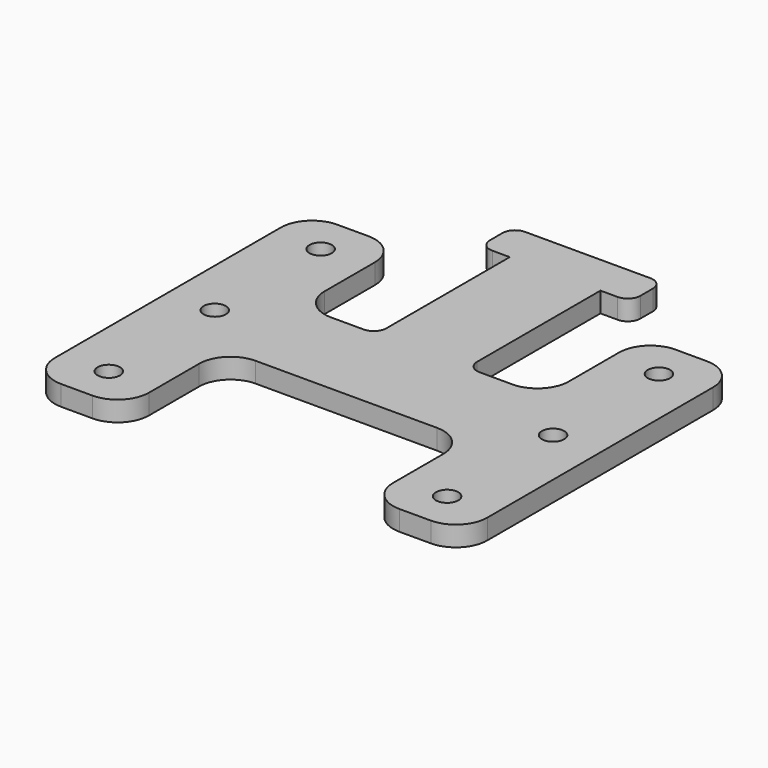
from build123d import *

# Parameters (mm, degrees)
F0_R     = 1.778
F1_DEPTH = 3.2


with BuildPart() as f1:
    # F0 (on Top) → F1 (new body)
    with BuildSketch(Plane.XY):
        with BuildLine():
            ThreePointArc((0, 5), (1.464466, 1.464466), (5, 0))
            Line((5, 0), (10, 0))
            ThreePointArc((10, 0), (13.535534, 1.464466), (15, 5))
            Line((15, 5), (15, 15))
            ThreePointArc((15, 15), (16.464466, 18.535534), (20, 20))
            Line((20, 20), (34.455914, 20))
            Line((34.455914, 20), (48.911828, 20))
            ThreePointArc((48.911828, 20), (52.447362, 18.535534), (53.911828, 15))
            Line((53.911828, 15), (53.911828, 5))
            ThreePointArc((53.911828, 5), (55.376294, 1.464466), (58.911828, 0))
            Line((58.911828, 0), (63.911828, 0))
            ThreePointArc((63.911828, 0), (67.447362, 1.464466), (68.911828, 5))
            Line((68.911828, 5), (68.911828, 50))
            ThreePointArc((68.911828, 50), (67.447362, 53.535534), (63.911828, 55))
            Line((63.911828, 55), (58.911828, 55))
            ThreePointArc((58.911828, 55), (55.376294, 53.535534), (53.911828, 50))
            Line((53.911828, 50), (53.911828, 40))
            ThreePointArc((53.911828, 40), (52.447362, 36.464466), (48.911828, 35))
            Line((48.911828, 35), (43.683871, 35))
            ThreePointArc((43.683871, 35), (42.269658, 35.585786), (41.683871, 37))
            Line((41.683871, 37), (41.683871, 61.580155))
            Line((41.683871, 61.580155), (44.441202, 61.580155))
            ThreePointArc((44.441202, 61.580155), (45.855415, 62.165942), (46.441202, 63.580155))
            Line((46.441202, 63.580155), (46.441202, 66.080155))
            ThreePointArc((46.441202, 66.080155), (45.855415, 67.494369), (44.441202, 68.080155))
            Line((44.441202, 68.080155), (34.455914, 68.080155))
            Line((34.455914, 68.080155), (24.470626, 68.080155))
            ThreePointArc((24.470626, 68.080155), (23.056413, 67.494369), (22.470626, 66.080155))
            Line((22.470626, 66.080155), (22.470626, 63.580155))
            ThreePointArc((22.470626, 63.580155), (23.056413, 62.165942), (24.470626, 61.580155))
            Line((24.470626, 61.580155), (27.227957, 61.580155))
            Line((27.227957, 61.580155), (27.227957, 37))
            ThreePointArc((27.227957, 37), (26.642171, 35.585786), (25.227957, 35))
            Line((25.227957, 35), (20, 35))
            ThreePointArc((20, 35), (16.464466, 36.464466), (15, 40))
            Line((15, 40), (15, 50))
            ThreePointArc((15, 50), (13.535534, 53.535534), (10, 55))
            Line((10, 55), (5, 55))
            ThreePointArc((5, 55), (1.464466, 53.535534), (0, 50))
            Line((0, 50), (0, 5))
        make_face()
        with Locations((7.5, 6.380155)):
            Circle(F0_R, mode=Mode.SUBTRACT)
        with Locations((7.5, 27.480155)):
            Circle(F0_R, mode=Mode.SUBTRACT)
        with Locations((61.411828, 6.380155)):
            Circle(F0_R, mode=Mode.SUBTRACT)
        with Locations((61.411828, 27.480155)):
            Circle(F0_R, mode=Mode.SUBTRACT)
        with Locations((7.5, 48.580155)):
            Circle(F0_R, mode=Mode.SUBTRACT)
        with Locations((61.411828, 48.580155)):
            Circle(F0_R, mode=Mode.SUBTRACT)
    extrude(amount=F1_DEPTH)


solid = f1.part
